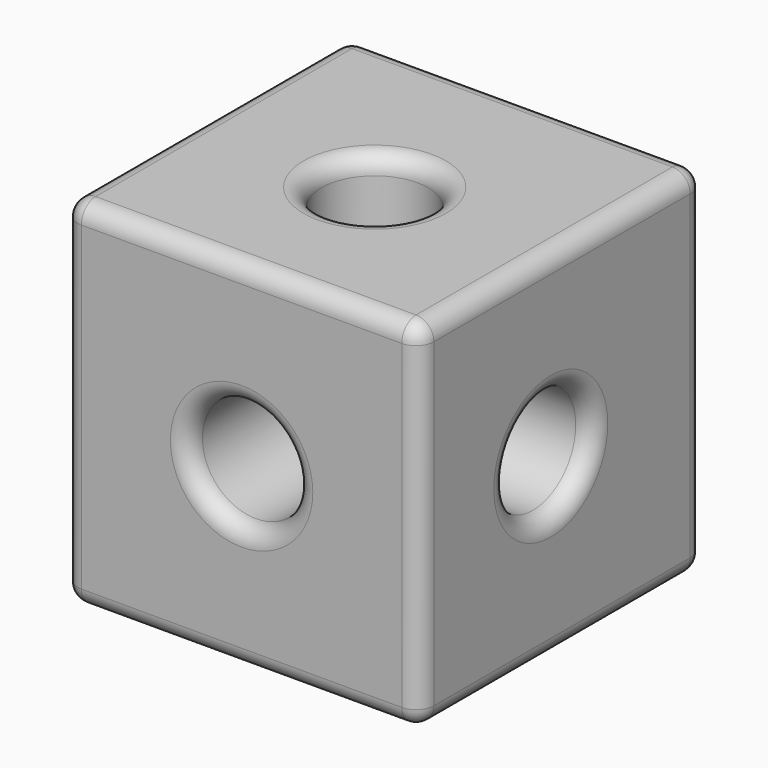
from build123d import *

# Parameters (mm, degrees)
F0_W     = 100
F0_H     = 100
F1_DEPTH = 100
F2_R     = 15
F3_DEPTH = 100
F4_R     = 15
F5_DEPTH = 100
F6_R     = 15
F7_DEPTH = 100
F8_R     = 5
F9_R     = 5


with BuildPart() as f1:
    # F0 (on Front) → F1 (new body)
    with BuildSketch(Plane.XZ):
        Rectangle(F0_W, F0_H)
    extrude(amount=F1_DEPTH)

    # F2 (on face) → F3 (cut)
    with BuildSketch(Plane.XZ.offset(100)):
        Circle(F2_R)
    extrude(amount=-F3_DEPTH, mode=Mode.SUBTRACT)

    # F4 (on face) → F5 (cut)
    with BuildSketch(Plane.XY.offset(50)):
        with Locations((0, -53.2565787435)):
            Circle(F4_R)
    extrude(amount=-F5_DEPTH, mode=Mode.SUBTRACT)

    # F6 (on face) → F7 (cut)
    with BuildSketch(Plane.YZ.offset(50)):
        with Locations((-53.9473704994, 0)):
            Circle(F6_R)
    extrude(amount=-F7_DEPTH, mode=Mode.SUBTRACT)

    # F8
    f8_edges = [f1.edges().sort_by_distance(p)[0] for p in [
        (50, -100, 0),
        (0, -100, -50),
        (0, -100, 50),
        (-50, -100, 0),
        (-15, -100, 0),
        (-50, -50, 50),
        (-50, 0, 0),
        (-50, -50, -50),
        (-50, -68.94737, 0),
        (50, -50, -50),
        (50, 0, 0),
        (50, -50, 50),
        (50, -68.94737, 0),
        (-15, 0, 0),
        (0, 0, -50),
        (0, 0, 50),
    ]]
    fillet(f8_edges, radius=F8_R)

    # F9
    f9_edges = [f1.edges().sort_by_distance(p)[0] for p in [
        (-15, -53.256579, 50),
        (0, -95, 50),
        (45, -50, 50),
        (-45, -50, 50),
        (0, -5, 50),
        (-15, -53.256579, -50),
    ]]
    fillet(f9_edges, radius=F9_R)


solid = f1.part
